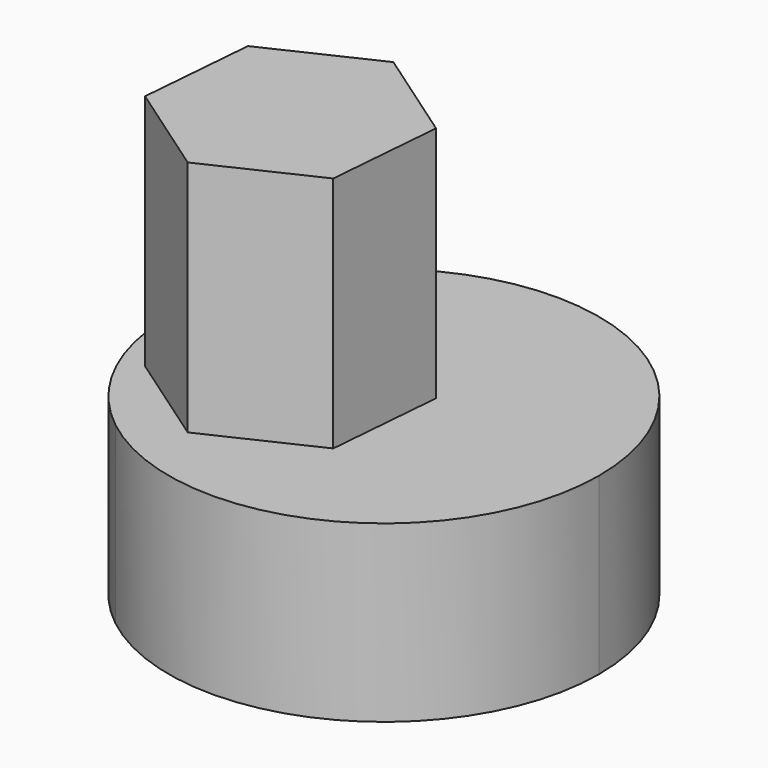
from build123d import *

# Parameters (mm, degrees)
F1_DEPTH = 25.4
F3_DEPTH = 34.544


with BuildPart() as f1:
    # F0 (on Top) → F1 (new body)
    with BuildSketch(Plane.XY):
        with BuildLine():
            Line((-70.7662329078, 55.5032007331), (-70.7662329078, 6.4394138818))
            ThreePointArc((-70.7662329078, 6.4394138818), (-37.7403006525, 2.8219468482), (-20.0934376224, 30.9713073075))
            ThreePointArc((-20.0934376224, 30.9713073075), (-37.7403006525, 59.1206677668), (-70.7662329078, 55.5032007331))
        make_face()
        with BuildLine():
            ThreePointArc((-70.7662329078, 55.5032007331), (-82.6427001849, 30.9713073075), (-70.7662329078, 6.4394138818))
            Line((-70.7662329078, 6.4394138818), (-70.7662329078, 55.5032007331))
        make_face()
    extrude(amount=F1_DEPTH)

    # F2 (on face) → F3 (join)
    with BuildSketch(Plane.XY.offset(25.4)):
        Polygon((-63.1933323456, 10.1122700805), (-47.8355326341, 17.3510151719), (-46.425569919, 34.2706324141), (-60.3734069155, 43.9515045648), (-75.7312066271, 36.7127594734), (-77.1411693421, 19.7931422312), align=None)
    extrude(amount=F3_DEPTH)


solid = f1.part
